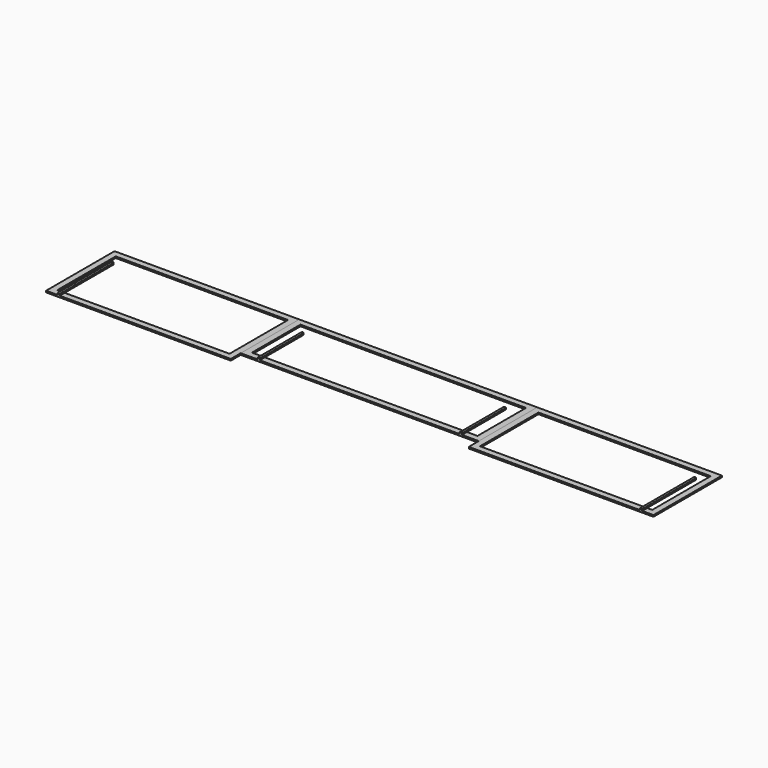
from build123d import *

# Parameters (mm, degrees)
F1_DEPTH = 25.4
F0_W     = 3886.2
F0_H     = 1193.8
F0_W_2   = 3683
F0_H_2   = 990.6000024557
F2_DEPTH = 25.4
F3_DEPTH = 25.4
F5_DEPTH = 25.4


with BuildPart() as f1:
    # F0 (on Top) → F1 (new body)
    with BuildSketch(Plane.XY):
        Polygon((3016.25, 0), (0, 0), (0, -1397), (3016.25, -1397), (3016.25, -1193.8), align=None)
        Polygon((2914.6500012279, -1295.4000012279), (101.5999987721, -1295.4000012279), (101.5999987721, -101.5999987721), (2914.6500012279, -101.5999987721), (2914.6500012279, -1092.2000012279), align=None, mode=Mode.SUBTRACT)
    extrude(amount=F1_DEPTH)


with BuildPart() as f2:
    # F0 (on Top) → F2 (new body)
    with BuildSketch(Plane.XY):
        with Locations((4959.35, -596.9)):
            Rectangle(F0_W, F0_H)
        with Locations((4959.35, -596.9)):
            Rectangle(F0_W_2, F0_H_2, mode=Mode.SUBTRACT)
    extrude(amount=F2_DEPTH)


with BuildPart() as f3:
    # F0 (on Top) → F3 (new body)
    with BuildSketch(Plane.XY):
        Polygon((9918.7, 0), (6902.45, 0), (6902.45, -1193.8), (6902.45, -1397), (9918.7, -1397), align=None)
        Polygon((7004.0499987721, -101.5999987721), (9817.1000012279, -101.5999987721), (9817.1000012279, -1295.4000012279), (7004.0499987721, -1295.4000012279), (7004.0499987721, -1092.2000012279), align=None, mode=Mode.SUBTRACT)
    extrude(amount=F3_DEPTH)


with BuildPart() as f5:
    # F4 (on face) → F5 (new body)
    with BuildSketch(Plane.XY.offset(25.4)):
        with BuildLine():
            Line((184.15, -304.8), (184.15, -1397))
            Line((184.15, -1397), (222.25, -1397))
            Line((222.25, -1397), (222.25, -304.8))
            ThreePointArc((222.25, -304.8), (203.2, -323.85), (184.15, -304.8))
        make_face()
        with BuildLine():
            ThreePointArc((222.25, -304.8), (203.2, -285.75), (184.15, -304.8))
            Line((184.15, -304.8), (222.25, -304.8))
        make_face()
        with BuildLine():
            Line((222.25, -304.8), (184.15, -304.8))
            ThreePointArc((184.15, -304.8), (203.2, -323.85), (222.25, -304.8))
        make_face()
    extrude(amount=F5_DEPTH)


with BuildPart() as f5b:
    # F4 (on face) → F5, piece 2 (new body)
    with BuildSketch(Plane.XY.offset(25.4)):
        with BuildLine():
            Line((3289.3, -304.8), (3289.3, -1193.8))
            Line((3289.3, -1193.8), (3327.4, -1193.8))
            Line((3327.4, -1193.8), (3327.4, -304.8))
            ThreePointArc((3327.4, -304.8), (3308.35, -323.85), (3289.3, -304.8))
        make_face()
        with BuildLine():
            ThreePointArc((3327.4, -304.8), (3308.35, -285.75), (3289.3, -304.8))
            Line((3289.3, -304.8), (3327.4, -304.8))
        make_face()
        with BuildLine():
            Line((3327.4, -304.8), (3289.3, -304.8))
            ThreePointArc((3289.3, -304.8), (3308.35, -323.85), (3327.4, -304.8))
        make_face()
    extrude(amount=F5_DEPTH)


with BuildPart() as f5c:
    # F4 (on face) → F5, piece 3 (new body)
    with BuildSketch(Plane.XY.offset(25.4)):
        with BuildLine():
            Line((6591.3, -304.8), (6591.3, -1193.8))
            Line((6591.3, -1193.8), (6629.4, -1193.8))
            Line((6629.4, -1193.8), (6629.4, -304.8))
            ThreePointArc((6629.4, -304.8), (6610.35, -323.85), (6591.3, -304.8))
        make_face()
        with BuildLine():
            ThreePointArc((6629.4, -304.8), (6610.35, -285.75), (6591.3, -304.8))
            Line((6591.3, -304.8), (6629.4, -304.8))
        make_face()
        with BuildLine():
            Line((6629.4, -304.8), (6591.3, -304.8))
            ThreePointArc((6591.3, -304.8), (6610.35, -323.85), (6629.4, -304.8))
        make_face()
    extrude(amount=F5_DEPTH)


with BuildPart() as f5d:
    # F4 (on face) → F5, piece 4 (new body)
    with BuildSketch(Plane.XY.offset(25.4)):
        with BuildLine():
            Line((9696.45, -304.8), (9696.45, -1397))
            Line((9696.45, -1397), (9734.55, -1397))
            Line((9734.55, -1397), (9734.55, -304.8))
            ThreePointArc((9734.55, -304.8), (9715.5, -323.85), (9696.45, -304.8))
        make_face()
        with BuildLine():
            ThreePointArc((9734.55, -304.8), (9715.5, -285.75), (9696.45, -304.8))
            Line((9696.45, -304.8), (9734.55, -304.8))
        make_face()
        with BuildLine():
            Line((9734.55, -304.8), (9696.45, -304.8))
            ThreePointArc((9696.45, -304.8), (9715.5, -323.85), (9734.55, -304.8))
        make_face()
    extrude(amount=F5_DEPTH)


solid = Compound([f1.part, f2.part, f3.part, f5.part, f5b.part, f5c.part, f5d.part])
